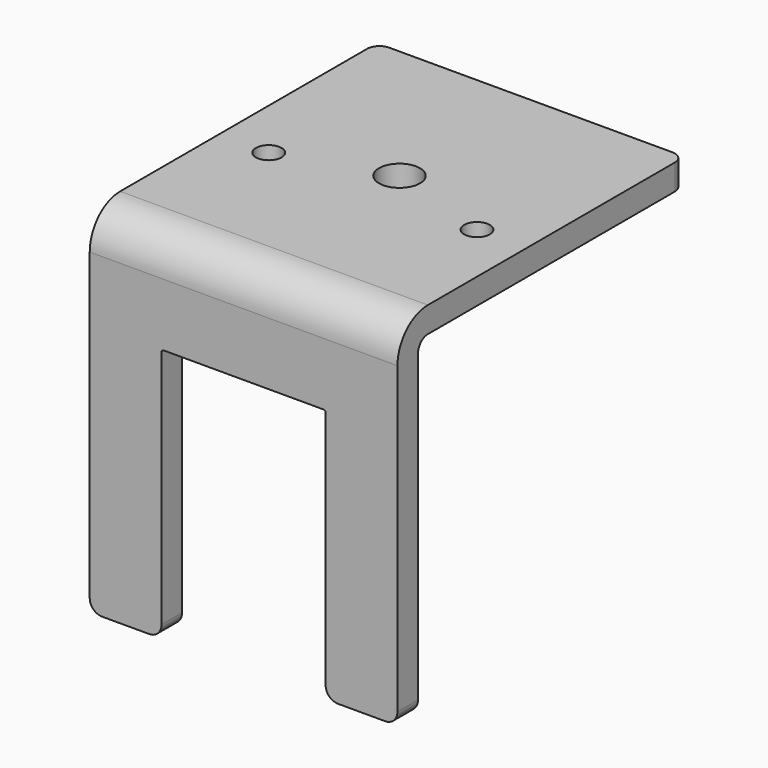
from build123d import *

# Parameters (mm, degrees)
F1_DEPTH = 38.1
F3_DEPTH = 3.175
F4_R     = 1.524
F5_R     = 2.54
F5_R_2   = 1.5875
F6_DEPTH = 3.175
F7_W     = 70.9456168115
F7_H     = 45.830719173
F8_DEPTH = 19.05
F9_R     = 1.524


with BuildPart() as f1:
    # F0 (on Right) → F1 (new body)
    with BuildSketch(Plane.YZ):
        with BuildLine():
            Line((-64.0291666667, 0), (-60.8541666667, 0))
            Line((-60.8541666667, 0), (-60.8541666667, 39.243))
            ThreePointArc((-60.8541666667, 39.243), (-60.4077974012, 40.3206307345), (-59.3301666667, 40.767))
            Line((-59.3301666667, 40.767), (-0.5291666667, 40.767))
            Line((-0.5291666667, 40.767), (-0.5291666667, 43.942))
            Line((-0.5291666667, 43.942), (-59.3301666667, 43.942))
            ThreePointArc((-59.3301666667, 43.942), (-62.6528614315, 42.5656947648), (-64.0291666667, 39.243))
            Line((-64.0291666667, 39.243), (-64.0291666667, 0))
        make_face()
    extrude(amount=F1_DEPTH)

    # F2 (on face) → F3 (cut, through all)
    with BuildSketch(Plane.XZ.offset(64.0291666667)):
        with BuildLine():
            Line((8.89, 31.242), (8.89, 0))
            Line((8.89, 0), (29.21, 0))
            Line((29.21, 0), (29.21, 31.242))
            ThreePointArc((29.21, 31.242), (29.1356051224, 31.4216051224), (28.956, 31.496))
            Line((28.956, 31.496), (9.144, 31.496))
            ThreePointArc((9.144, 31.496), (8.9643948776, 31.4216051224), (8.89, 31.242))
        make_face()
    extrude(amount=-F3_DEPTH, mode=Mode.SUBTRACT)

    # F4
    f4_edges = [f1.edges().sort_by_distance(p)[0] for p in [
        (8.89, -62.441667, 0),
        (0, -62.441667, 0),
        (29.21, -62.441667, 0),
        (38.1, -62.441667, 0),
        (38.1, -0.529167, 42.3545),
        (0, -0.529167, 42.3545),
    ]]
    fillet(f4_edges, radius=F4_R)

    # F5 (on face) → F6 (cut, through all)
    with BuildSketch(Plane.XY.offset(43.942)):
        with Locations((19.05, -8.1491666667)):
            Circle(F5_R)
        with Locations((19.05, -39.8991666667)):
            Circle(F5_R)
        with Locations((31.9405, -44.0266666667)):
            Circle(F5_R_2)
        with Locations((6.1595, -44.0266666667)):
            Circle(F5_R_2)
    extrude(amount=-F6_DEPTH, mode=Mode.SUBTRACT)

    # F7 (on face) → F8 (cut)
    with BuildSketch(Plane(origin=(0, -0.5291666667, 0), x_dir=(-1, 0, 0), z_dir=(0, 1, 0))):
        with Locations((-19.1829390824, 42.4401424825)):
            Rectangle(F7_W, F7_H)
    extrude(amount=-F8_DEPTH, mode=Mode.SUBTRACT)

    # F9
    f9_edges = [f1.edges().sort_by_distance(p)[0] for p in [
        (38.1, -19.579167, 42.3545),
        (0, -19.579167, 42.3545),
    ]]
    fillet(f9_edges, radius=F9_R)


solid = f1.part
